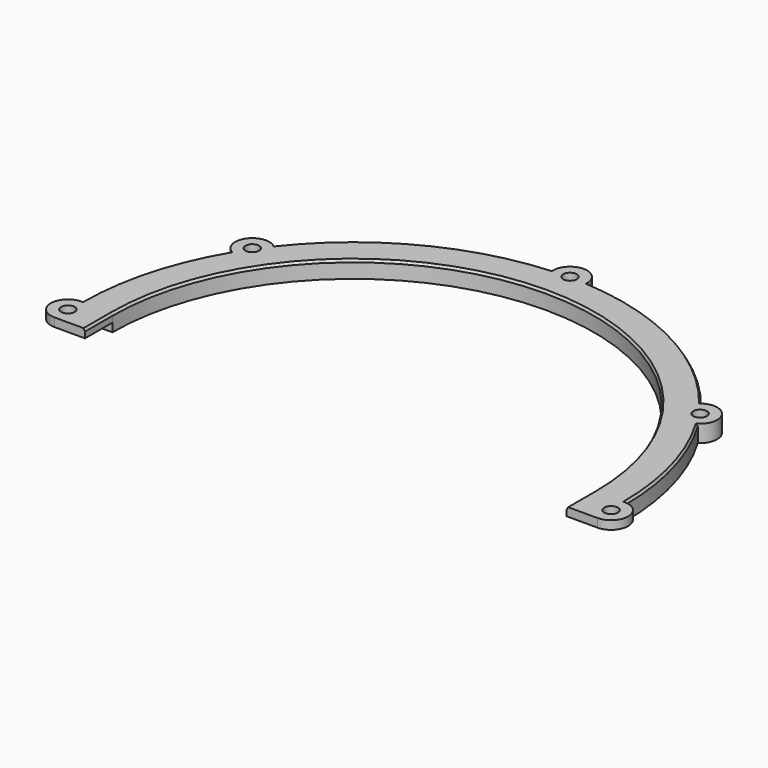
from build123d import *

# Parameters (mm, degrees)
F1_DEPTH   = 5
F2_R       = 2
F3_DEPTH   = 25
F4_SIZE2   = 0.4330127019
F4_SIZE    = 0.75
F4_2_SIZE2 = 0.4330127019
F4_2_SIZE  = 0.75
F4_3_SIZE2 = 0.4330127019
F4_3_SIZE  = 0.75
F4_4_SIZE2 = 0.4330127019
F4_4_SIZE  = 0.75
F4_5_SIZE2 = 0.4330127019
F4_5_SIZE  = 0.75
F6_DEPTH   = 2.5


with BuildPart() as f1:
    # F0 (on Top) → F1 (new body)
    with BuildSketch(Plane.XY):
        with BuildLine():
            Line((79.5, -10), (79.5, 0))
            ThreePointArc((79.5, 0), (76.6326218032, 21.1587163024), (68.2373264008, 40.7911422452))
            ThreePointArc((68.2373264008, 40.7911422452), (65.5381568249, 45), (62.5797484655, 49.0308584668))
            ThreePointArc((62.5797484655, 49.0308584668), (37.0331769321, 70.3476638298), (5, 79.3426115023))
            ThreePointArc((5, 79.3426115023), (0, 79.5), (-5, 79.3426115023))
            ThreePointArc((-5, 79.3426115023), (-37.0331769321, 70.3476638298), (-62.5797484655, 49.0308584668))
            ThreePointArc((-62.5797484655, 49.0308584668), (-65.5381568249, 45), (-68.2373264008, 40.7911422452))
            ThreePointArc((-68.2373264008, 40.7911422452), (-76.6326218032, 21.1587163024), (-79.5, 0))
            Line((-79.5, 0), (-79.5, -10))
            Line((-79.5, -10), (-70.5, -10))
            Line((-70.5, -10), (-70.5, 0))
            ThreePointArc((-70.5, 0), (0, 70.5), (70.5, 0))
            Line((70.5, 0), (70.5, -10))
            Line((70.5, -10), (79.5, -10))
        make_face()
        with BuildLine():
            ThreePointArc((79.5, -10), (84.5, -5), (79.5, 0))
            Line((79.5, 0), (79.5, -10))
        make_face()
        with BuildLine():
            ThreePointArc((62.5797484655, 49.0308584668), (65.5381568249, 45), (68.2373264008, 40.7911422452))
            ThreePointArc((68.2373264008, 40.7911422452), (69.6600534805, 47.8301886792), (62.5797484655, 49.0308584668))
        make_face()
        with BuildLine():
            ThreePointArc((-5, 79.3426115023), (0, 79.5), (5, 79.3426115023))
            ThreePointArc((5, 79.3426115023), (0, 84.3426115023), (-5, 79.3426115023))
        make_face()
        with BuildLine():
            ThreePointArc((-68.2373264008, 40.7911422452), (-65.5381568249, 45), (-62.5797484655, 49.0308584668))
            ThreePointArc((-62.5797484655, 49.0308584668), (-69.6600534805, 47.8301886792), (-68.2373264008, 40.7911422452))
        make_face()
        with BuildLine():
            ThreePointArc((-79.5, 0), (-84.5, -5), (-79.5, -10))
            Line((-79.5, -10), (-79.5, 0))
        make_face()
    extrude(amount=F1_DEPTH)

    # F2 (on face) → F3 (cut)
    with BuildSketch(Plane.XY.offset(5)):
        with Locations((0, 79.3426115023)):
            Circle(F2_R)
        with Locations((-65.5381568249, 45)):
            Circle(F2_R)
        with Locations((65.5381568249, 45)):
            Circle(F2_R)
        with Locations((-79.5, -5)):
            Circle(F2_R)
        with Locations((79.5, -5)):
            Circle(F2_R)
    extrude(amount=-F3_DEPTH, mode=Mode.SUBTRACT)

    # F4
    f4_edges = [f1.edges().sort_by_distance(p)[0] for p in [
        (0, 70.5, 5),
    ]]
    f4_side = f1.faces().sort_by_distance((0, 70.5, 2.5))[0]
    chamfer(f4_edges, length=F4_SIZE, length2=F4_SIZE2, reference=f4_side)

    # F4#2
    f4_2_edges = [f1.edges().sort_by_distance(p)[0] for p in [
        (-37.033177, 70.347664, 5),
    ]]
    f4_2_side = f1.faces().sort_by_distance((-37.033177, 70.347664, 2.5))[0]
    chamfer(f4_2_edges, length=F4_2_SIZE, length2=F4_2_SIZE2, reference=f4_2_side)

    # F4#3
    f4_3_edges = [f1.edges().sort_by_distance(p)[0] for p in [
        (37.033177, 70.347664, 5),
    ]]
    f4_3_side = f1.faces().sort_by_distance((37.033177, 70.347664, 2.5))[0]
    chamfer(f4_3_edges, length=F4_3_SIZE, length2=F4_3_SIZE2, reference=f4_3_side)

    # F4#4
    f4_4_edges = [f1.edges().sort_by_distance(p)[0] for p in [
        (76.632622, 21.158716, 5),
    ]]
    f4_4_side = f1.faces().sort_by_distance((76.632622, 21.158716, 2.5))[0]
    chamfer(f4_4_edges, length=F4_4_SIZE, length2=F4_4_SIZE2, reference=f4_4_side)

    # F4#5
    f4_5_edges = [f1.edges().sort_by_distance(p)[0] for p in [
        (-76.632622, 21.158716, 5),
    ]]
    f4_5_side = f1.faces().sort_by_distance((-76.632622, 21.158716, 2.5))[0]
    chamfer(f4_5_edges, length=F4_5_SIZE, length2=F4_5_SIZE2, reference=f4_5_side)

    # F5 (on face) → F6 (cut)
    with BuildSketch(Plane(origin=(0, 0, 0), x_dir=(1, 0, 0), z_dir=(0, 0, -1))):
        with BuildLine():
            ThreePointArc((-79.5, 10), (-84.5, 5), (-79.5, 0))
            Line((-79.5, 0), (-70.5, 0))
            Line((-70.5, 0), (-70.5, 10))
            Line((-70.5, 10), (-79.5, 10))
        make_face()
        with BuildLine():
            Line((70.5, 0), (79.5, 0))
            ThreePointArc((79.5, 0), (84.5, 5), (79.5, 10))
            Line((79.5, 10), (70.5, 10))
            Line((70.5, 10), (70.5, 0))
        make_face()
    extrude(amount=-F6_DEPTH, mode=Mode.SUBTRACT)


solid = f1.part
